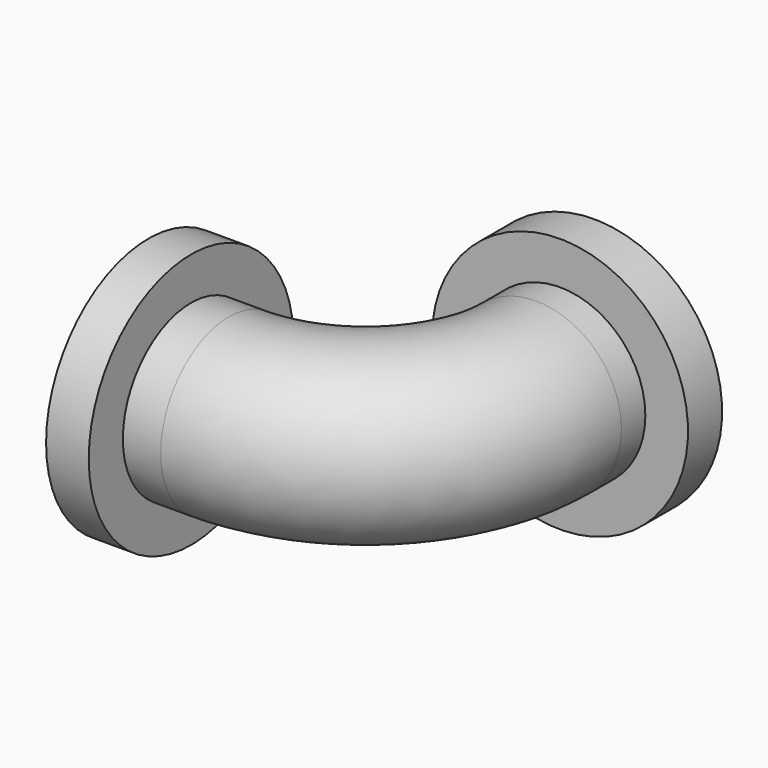
from build123d import *

# Parameters (mm, degrees)
F0_R     = 20
F0_R_2   = 10
F4_R     = 30
F4_R_2   = 20
F5_DEPTH = 10
F7_R     = 30
F7_R_2   = 20
F8_DEPTH = 10


with BuildPart() as f2:
    # F2: sweep along a path in F1
    with BuildLine(Plane.XY) as f2_path:
        Line((0, 0), (0, -20))
        ThreePointArc((0, -20), (-11.7157287525, -48.2842712475), (-40, -60))
        Line((-40, -60), (-61.8760055131, -60))
    # F0 (on Front) → F2 (sweep)
    with BuildSketch(Plane.XZ):
        Circle(F0_R)
        Circle(F0_R_2, mode=Mode.SUBTRACT)
    sweep(path=f2_path.line)

    # F4 (on offset) → F5 (join)
    with BuildSketch(Plane(origin=(-58.8760055131, 0, 0), x_dir=(0, -1, 0), z_dir=(-1, 0, 0))):
        with Locations((60, 0)):
            Circle(F4_R)
        with Locations((60, 0)):
            Circle(F4_R_2, mode=Mode.SUBTRACT)
    extrude(amount=-F5_DEPTH)

    # F7 (on offset) → F8 (join)
    with BuildSketch(Plane(origin=(0, -3, 0), x_dir=(-1, 0, 0), z_dir=(0, 1, 0))):
        Circle(F7_R)
        Circle(F7_R_2, mode=Mode.SUBTRACT)
    extrude(amount=-F8_DEPTH)


solid = f2.part
